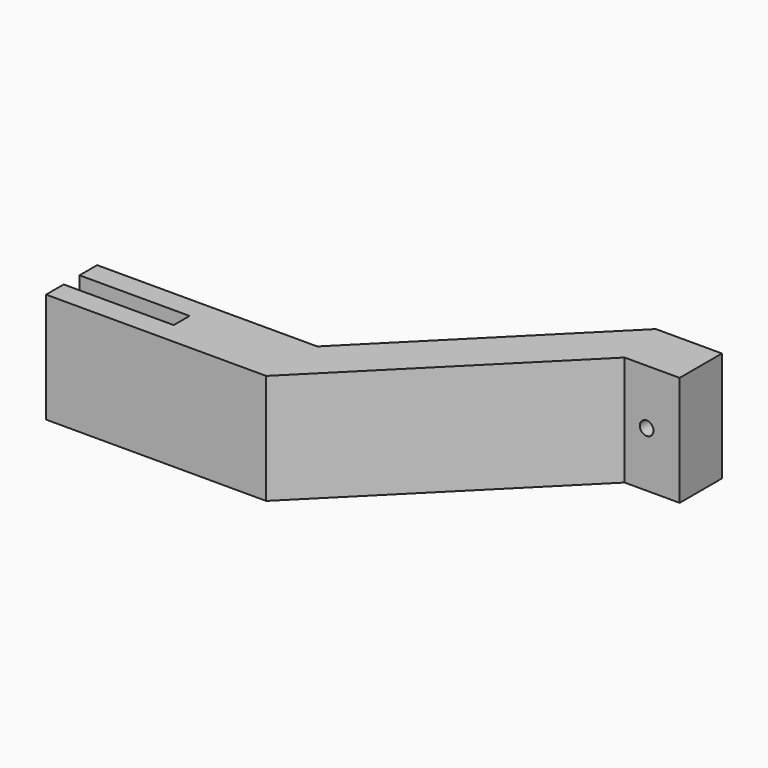
from build123d import *

# Parameters (mm, degrees)
F1_DEPTH = 25.4
F2_R     = 1.5875
F3_DEPTH = 25.4


with BuildPart() as f1:
    # F0 (on Top) → F1 (new body)
    with BuildSketch(Plane.XY):
        Polygon((-50.8, 0), (0, 0), (45.948514, 45.948514), (58.648514, 45.948514), (58.648514, 58.140514), (43.408514, 58.140514), (0, 14.732), (-50.8, 14.732), (-50.8, 9.652), (-25.4, 9.652), (-25.4, 5.08), (-50.8, 5.08), align=None)
    extrude(amount=F1_DEPTH)

    # F2 (on face) → F3 (cut)
    with BuildSketch(Plane(origin=(0, 58.140514, 0), x_dir=(-1, 0, 0), z_dir=(0, 1, 0))):
        with Locations((-51.028514, 12.7)):
            Circle(F2_R)
    extrude(amount=-F3_DEPTH, mode=Mode.SUBTRACT)


solid = f1.part
